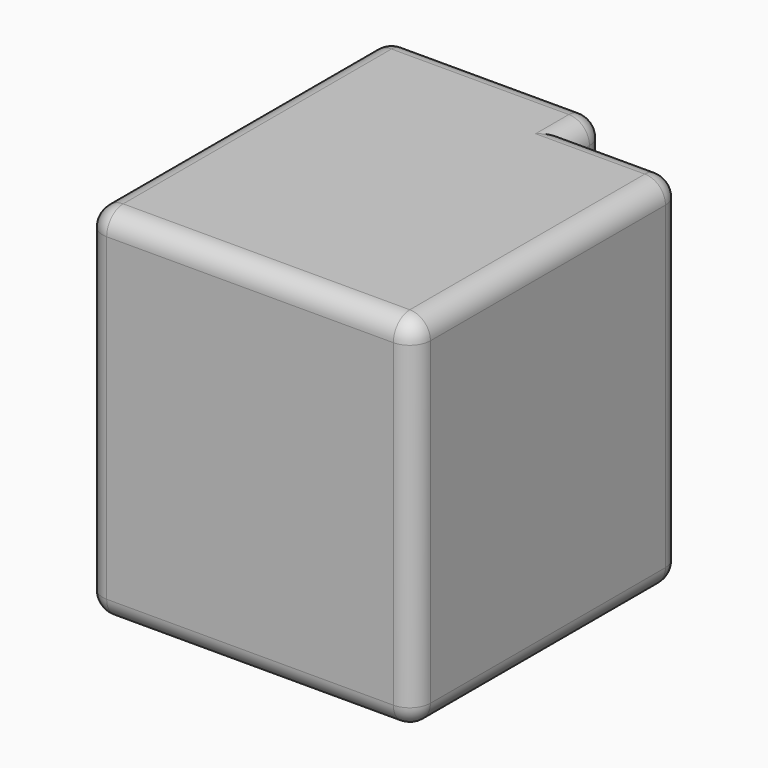
from build123d import *

# Parameters (mm, degrees)
F0_W     = 53.9261531085
F0_H     = 10.2576948702
F1_DEPTH = 88.9
F2_R     = 5.08


with BuildPart() as f1:
    # F0 (on Top) → F1 (new body)
    with BuildSketch(Plane.XY):
        with Locations((-16.4123075083, 37.074232474)):
            Rectangle(F0_W, F0_H)
        Polygon((10.5507690459, 31.9453850389), (-43.3753840625, 31.9453850389), (-43.3753840625, -50.7023110986), (37.5138483942, -50.7023110986), (37.5138483942, 31.9453850389), align=None)
    extrude(amount=F1_DEPTH)

    # F2
    f2_edges = [f1.edges().sort_by_distance(p)[0] for p in [
        (24.032309, 31.945385, 0),
        (-16.412308, 42.20308, 0),
        (10.550769, 42.20308, 44.45),
        (-43.375384, 42.20308, 44.45),
        (-43.375384, -4.249616, 0),
        (-2.930768, -50.702311, 0),
        (37.513848, -9.378463, 0),
        (-43.375384, -4.249616, 88.9),
        (-43.375384, -50.702311, 44.45),
        (37.513848, -50.702311, 44.45),
        (-2.930768, -50.702311, 88.9),
        (37.513848, -9.378463, 88.9),
        (24.032309, 31.945385, 88.9),
        (-16.412308, 42.20308, 88.9),
        (10.550769, 37.074232, 88.9),
        (37.513848, 31.945385, 44.45),
    ]]
    fillet(f2_edges, radius=F2_R)


solid = f1.part
